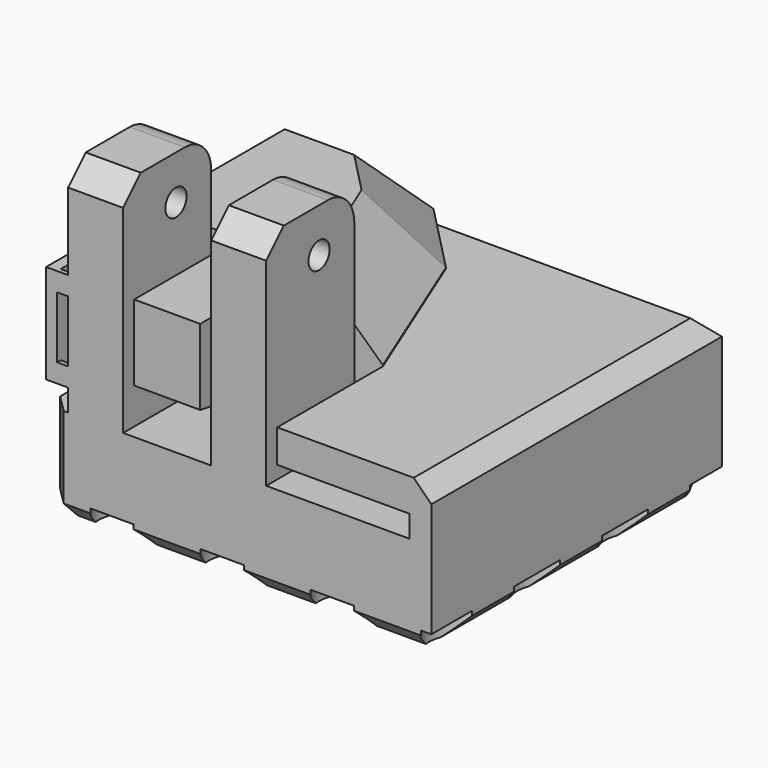
from build123d import *

# Parameters (mm, degrees)
SKETCH_W             = 35
SKETCH_H             = 33
PAD_DEPTH            = 20
SKETCH001_W          = 7
SKETCH001_H          = 12
POCKET_DEPTH         = 10
SKETCH004_W          = 36
SKETCH004_H          = 2
POCKET002_DEPTH      = 18.001
POCKET002_DEPTH_BACK = 15.001
SKETCH002_W          = 5
SKETCH002_H          = 10
PAD001_DEPTH         = 20
SKETCH003_R          = 1.2
POCKET001_DEPTH      = 22.001
POCKET003_DEPTH      = 6
CHAMFER_SIZE         = 5.9
CHAMFER001_SIZE      = 1.6
CHAMFER002_SIZE      = 2
FILLET_R             = 3
SKETCH010_R          = 2.8
POCKET006_DEPTH      = 2
LINEARPATTERN_COUNT  = 4
LINEARPATTERN_PITCH  = 10
SKETCH012_R          = 3.5
POCKET007_DEPTH      = 8
SKETCH013_W          = 3.523392
SKETCH013_H          = 1.7
SKETCH013_W_2        = 3.89822
PAD003_DEPTH         = 0.4
POCKET008_DEPTH      = 6


with BuildPart() as part:
    # Sketch → Pad (new body)
    with BuildSketch(Plane.XY):
        with Locations((-4.5, 1.5)):
            Rectangle(SKETCH_W, SKETCH_H)
    extrude(amount=PAD_DEPTH)

    # Sketch001 (on Face6 of Pad) → Pocket (cut)
    with BuildSketch(Plane.XY.offset(20)):
        with Locations((-17.5, -9)):
            Rectangle(SKETCH001_W, SKETCH001_H)
        with Locations((-4.5, -9)):
            Rectangle(SKETCH001_W, SKETCH001_H)
    extrude(amount=-POCKET_DEPTH, mode=Mode.SUBTRACT)

    # Sketch004 → Pocket002 (cut, two sides)
    with BuildSketch(Plane.XZ) as pocket002_sk:
        with Locations((-7, 10)):
            Rectangle(SKETCH004_W, SKETCH004_H)
    extrude(amount=-POCKET002_DEPTH, mode=Mode.SUBTRACT)
    extrude(pocket002_sk.sketch, amount=POCKET002_DEPTH_BACK, mode=Mode.SUBTRACT)

    # Sketch002 (on Face8 of Pocket002) → Pad001 (join)
    with BuildSketch(Plane.XY.offset(9)):
        with Locations((-17.5, -10)):
            Rectangle(SKETCH002_W, SKETCH002_H)
        with Locations((-4.5, -10)):
            Rectangle(SKETCH002_W, SKETCH002_H)
    extrude(amount=PAD001_DEPTH)

    # Sketch003 → Pocket001 (cut, through all)
    with BuildSketch(Plane.YZ):
        with Locations((-9, 25)):
            Circle(SKETCH003_R)
    extrude(amount=-POCKET001_DEPTH, mode=Mode.SUBTRACT)

    # Sketch005 (on Face4 of Pocket001) → Pocket003 (cut)
    with BuildSketch(Plane.XY.offset(20)):
        Polygon((-6.878414, 11.506697), (-1, -3), (-1, -16.521692), (16.145611, -16.521692), (16.145611, 20.333527), (-18.556482, 20.333527), (-13.204168, 18), align=None)
    extrude(amount=-POCKET003_DEPTH, mode=Mode.SUBTRACT)

    # Chamfer
    chamfer_edges = [part.edges().sort_by_distance(p)[0] for p in [
        (-17.602084, 18, 20),
        (-10.041291, 14.753349, 20),
        (-3.939207, 4.253349, 20),
    ]]
    chamfer(chamfer_edges, length=CHAMFER_SIZE)

    # Chamfer001
    chamfer001_edges = [part.edges().sort_by_distance(p)[0] for p in [
        (-4.5, 18, 0),
        (13, 1.5, 0),
        (-4.5, -15, 0),
        (-22, 1.5, 0),
        (-22, 18, 4.5),
        (-22, -15, 4.5),
        (-22, 18, 12.55),
        (13, 1.5, 14),
        (-0.102084, 18, 14),
    ]]
    chamfer(chamfer001_edges, length=CHAMFER001_SIZE)

    # Chamfer002
    chamfer002_edges = [part.edges().sort_by_distance(p)[0] for p in [
        (-17.5, -15, 29),
        (-4.5, -15, 29),
    ]]
    chamfer(chamfer002_edges, length=CHAMFER002_SIZE)

    # Fillet
    fillet_edges = [part.edges().sort_by_distance(p)[0] for p in [
        (-4.5, -5, 29),
        (-17.5, -5, 29),
    ]]
    fillet(fillet_edges, radius=FILLET_R)

    # Sketch010 → Pocket006 (cut)
    with BuildSketch(Plane.XY):
        with Locations((14, -13)):
            Circle(SKETCH010_R)
        with Locations((4, -13)):
            Circle(SKETCH010_R)
        with Locations((-6, -13)):
            Circle(SKETCH010_R)
        with Locations((-16, -13)):
            Circle(SKETCH010_R)
    pocket006 = extrude(amount=POCKET006_DEPTH, mode=Mode.SUBTRACT)

    # LinearPattern: Pocket006 ×4
    with Locations(*[(0, i * LINEARPATTERN_PITCH, 0) for i in range(1, LINEARPATTERN_COUNT)]):
        add(pocket006, mode=Mode.SUBTRACT)

    # Sketch012 (on Face5 of Pad) → Pocket007 (cut)
    with BuildSketch(Plane(origin=(0, 0, 0), x_dir=(1, 0, 0), z_dir=(0, 0, -1))):
        with Locations((-16, -7)):
            Circle(SKETCH012_R)
    extrude(amount=-POCKET007_DEPTH, mode=Mode.SUBTRACT)

    # Sketch013 (on Face3 of Pad) → Pad003 (join)
    with BuildSketch(Plane.XZ.offset(15)):
        with Locations((-19.82605, 19.15)):
            Rectangle(SKETCH013_W, SKETCH013_H)
        with Locations((-19.451214, 11.85)):
            Rectangle(SKETCH013_W_2, SKETCH013_H)
    extrude(amount=-PAD003_DEPTH)

    # Sketch014 (on Face9 of Pocket) → Pocket008 (cut)
    with BuildSketch(Plane(origin=(-14, 0, 0), x_dir=(0, -1, 0), z_dir=(-1, 0, 0))):
        Polygon((3, 11), (23, 14.52654), (23, 11), align=None)
    extrude(amount=-POCKET008_DEPTH, mode=Mode.SUBTRACT)


solid = part.part
